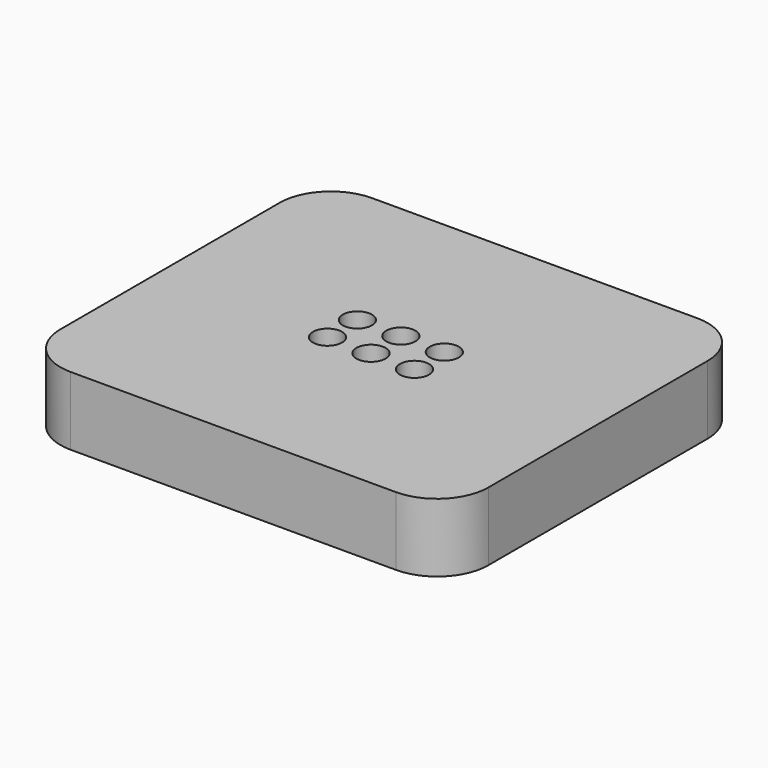
from build123d import *

# Parameters (mm, degrees)
F0_R     = 0.85
F1_DEPTH = 4


with BuildPart() as f1:
    # F0 (on Top) → F1 (new body)
    with BuildSketch(Plane.XY):
        with BuildLine():
            ThreePointArc((0, 3), (0.87868, 0.87868), (3, 0))
            Line((3, 0), (22, 0))
            ThreePointArc((22, 0), (24.12132, 0.87868), (25, 3))
            Line((25, 3), (25, 19))
            ThreePointArc((25, 19), (24.12132, 21.12132), (22, 22))
            Line((22, 22), (3, 22))
            ThreePointArc((3, 22), (0.87868, 21.12132), (0, 19))
            Line((0, 19), (0, 3))
        make_face()
        with Locations((10, 10)):
            Circle(F0_R, mode=Mode.SUBTRACT)
        with Locations((12.54, 10)):
            Circle(F0_R, mode=Mode.SUBTRACT)
        with Locations((15.08, 10)):
            Circle(F0_R, mode=Mode.SUBTRACT)
        with Locations((10, 12.180092)):
            Circle(F0_R, mode=Mode.SUBTRACT)
        with Locations((12.54, 12.180092)):
            Circle(F0_R, mode=Mode.SUBTRACT)
        with Locations((15.08, 12.180092)):
            Circle(F0_R, mode=Mode.SUBTRACT)
    extrude(amount=F1_DEPTH)


solid = f1.part
